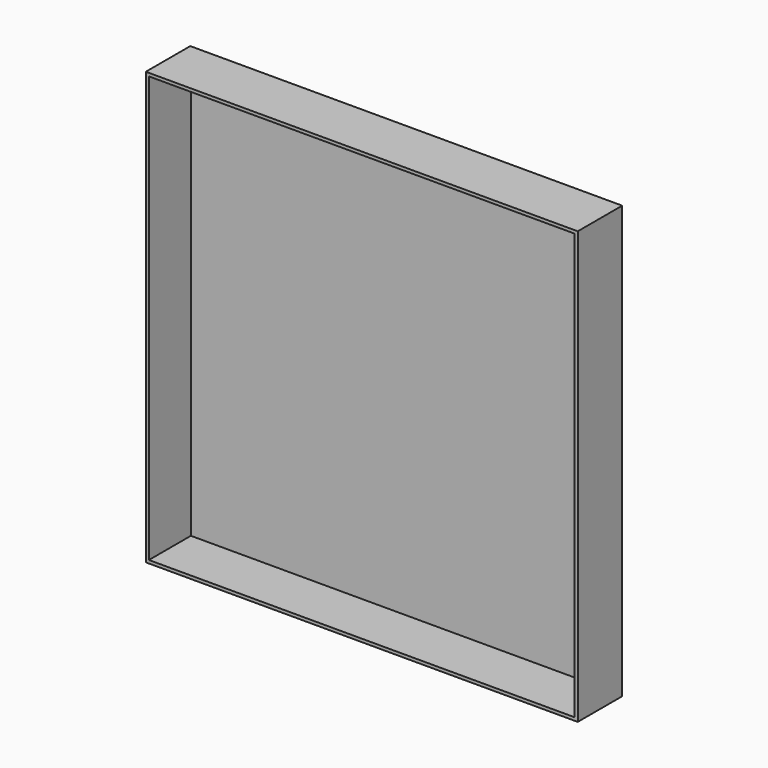
from build123d import *

# Parameters (mm, degrees)
F0_W     = 889
F0_H     = 889
F1_DEPTH = 114.3
F2_T     = -6.35


with BuildPart() as f1:
    # F0 (on Front) → F1 (new body)
    with BuildSketch(Plane.XZ):
        Rectangle(F0_W, F0_H)
    extrude(amount=-F1_DEPTH)

    # F2
    f2_openings = [f1.faces().sort_by_distance(p)[0] for p in [
        (0, 0, 0),
    ]]
    offset(amount=F2_T, openings=f2_openings)


solid = f1.part
